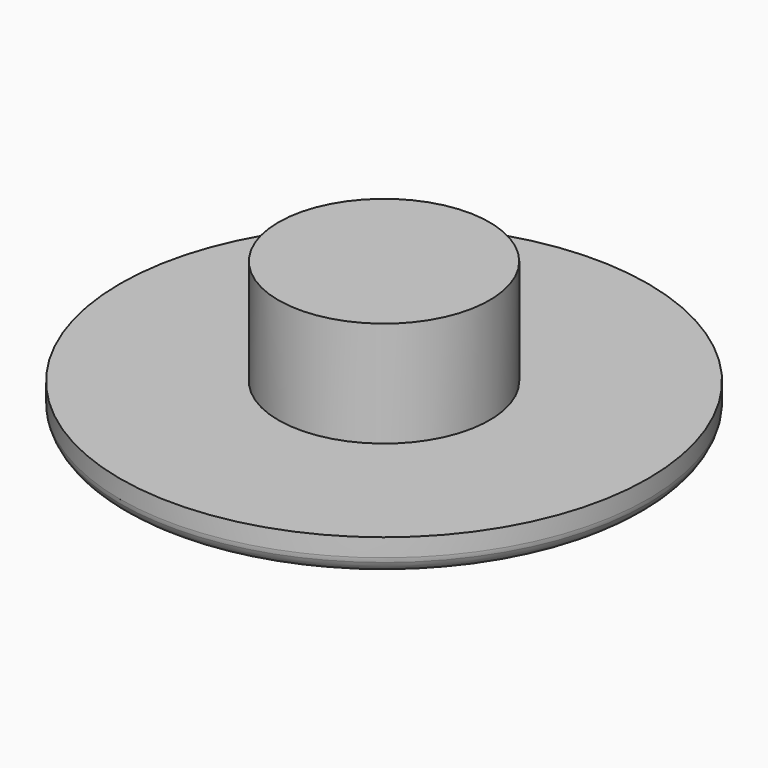
from build123d import *

# Parameters (mm, degrees)
F2_R = 0.5


with BuildPart() as f1:
    # F0 (on Front) → F1 (revolve)
    with BuildSketch(Plane.XZ):
        with BuildLine():
            Line((-10, 1.5), (-10, 0.75))
            add(Edge.make_bspline(
                [(-10, 0.75), (-9.8680201918, 0.1591282635), (-7.7655296493, -0.3879261877), (-3.3133795951, 0.9269575239), (0, 0.75)],
                knots=[0, 0, 0, 0, 0.3231355177, 1, 1, 1, 1], degree=3))
            Line((0, 0.75), (0, 5.5))
            Line((0, 5.5), (-4, 5.5))
            Line((-4, 5.5), (-4, 1.5))
            Line((-4, 1.5), (-10, 1.5))
        make_face()
    revolve(axis=Axis((0, 0, 3.125), (0, 0, -1)))

    # F2
    f2_edges = [f1.edges().sort_by_distance(p)[0] for p in [
        (10, 0, 0.75),
    ]]
    fillet(f2_edges, radius=F2_R)


solid = f1.part
